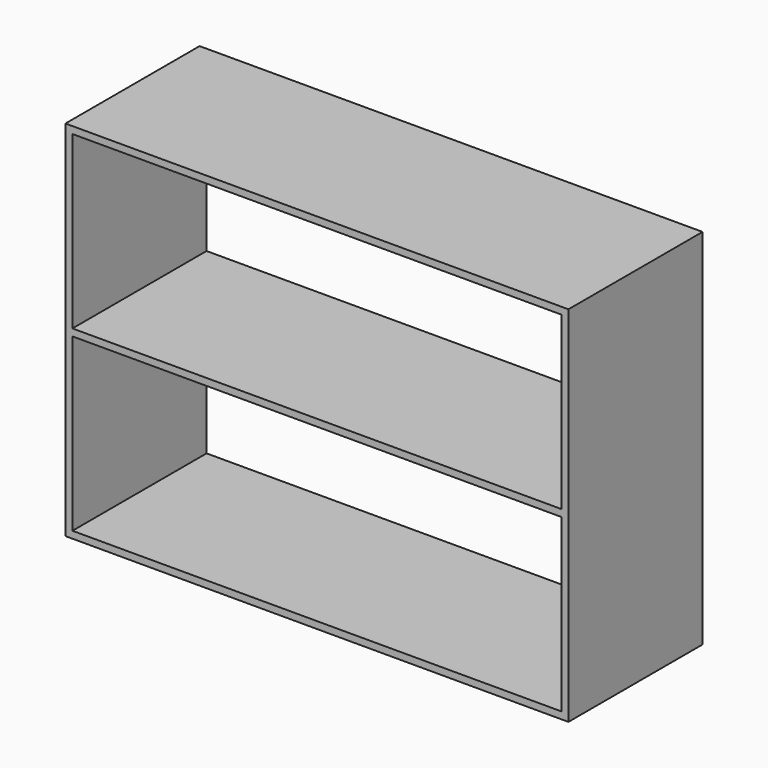
from build123d import *

# Parameters (mm, degrees)
F0_W     = 914.4
F0_H     = 660.4
F0_W_2   = 889
F0_H_2   = 311.15
F0_H_3   = 311.150003
F1_DEPTH = 304.8


with BuildPart() as f1:
    # F0 (on Front) → F1 (new body)
    with BuildSketch(Plane.XZ):
        with Locations((457.2, 330.2)):
            Rectangle(F0_W, F0_H)
        with Locations((457.2, 168.275)):
            Rectangle(F0_W_2, F0_H_2, mode=Mode.SUBTRACT)
        with Locations((457.2, 492.124998)):
            Rectangle(F0_W_2, F0_H_3, mode=Mode.SUBTRACT)
    extrude(amount=F1_DEPTH)


solid = f1.part
